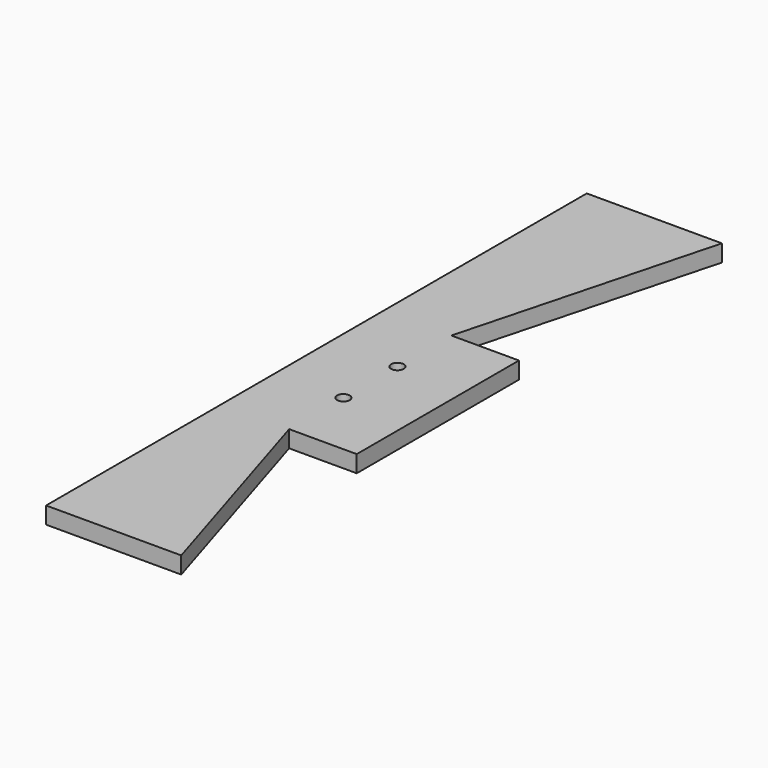
from build123d import *

# Parameters (mm, degrees)
F1_DEPTH = 19.05
F0_R     = 9.525
F2_DEPTH = 25.4


with BuildPart() as f1:
    # F0 (on Top) → F1 (new body)
    with BuildSketch(Plane.XY):
        Polygon((154.2242345231, 0), (52.7512345231, 0), (52.7512345231, -381.426606369), (154.3512345231, -381.426606369), (255.9512345231, 0), align=None)
    extrude(amount=F1_DEPTH)

    # F0 (on Top) → F2 (join)
    with BuildSketch(Plane.XY):
        Polygon((154.2242345231, 0), (52.7512345231, 0), (52.7512345231, -381.426606369), (154.3512345231, -381.426606369), (255.9512345231, 0), align=None)
        Polygon((154.3512345231, -686.226606369), (52.7512345231, -686.226606369), (52.7512345231, -1016), (154.2242345231, -1016), (255.9512345231, -1016), align=None)
        Polygon((154.3512345231, -381.426606369), (52.7512345231, -381.426606369), (52.7512345231, -686.226606369), (154.3512345231, -686.226606369), (255.9512345231, -686.226606369), (255.9512345231, -381.426606369), align=None)
        with Locations((154.2242345231, -584.2)):
            Circle(F0_R, mode=Mode.SUBTRACT)
        with Locations((154.2242345231, -482.6)):
            Circle(F0_R, mode=Mode.SUBTRACT)
    extrude(amount=F2_DEPTH)


solid = f1.part
